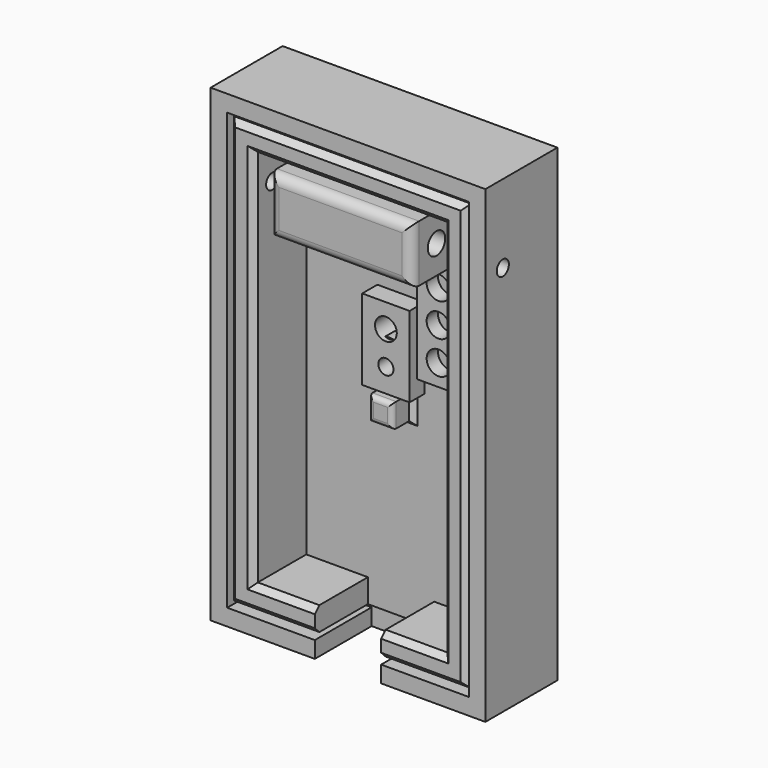
from build123d import *

# Parameters (mm, degrees)
SKETCH006_W          = 58
SKETCH006_H          = 99
PAD004_DEPTH         = 16
SKETCH007_W          = 51
SKETCH007_H          = 92
SKETCH007_W_2        = 30
SKETCH007_H_2        = 12
SKETCH007_W_3        = 5
SKETCH007_H_3        = 5
POCKET004_DEPTH      = 12
POCKET004_FACE21_W   = 5
POCKET004_FACE21_H   = 5
POCKET005_DEPTH      = 5.6
POCKET005_FACE20_W   = 30
POCKET005_FACE20_H   = 12
PAD005_DEPTH         = 5
SKETCH009_R          = 2.3
POCKET006_DEPTH      = 4
SKETCH010_R          = 2.3
POCKET007_DEPTH      = 4
SKETCH011_R          = 1.6
POCKET008_DEPTH      = 40.001
POCKET008_DEPTH_BACK = -18.001
FILLET_R             = 2
FILLET001_R          = 1
SKETCH012_W          = 14
SKETCH012_H          = 12
POCKET009_DEPTH      = 3.5
SKETCH015_R          = 5
PAD007_DEPTH         = 4
SKETCH016_R          = 2.3
POCKET012_DEPTH      = 3
PAD012_DEPTH         = 3
SKETCH_R             = 2.1
POCKET_DEPTH         = 4.001
CHAMFER_SIZE         = 2
CHAMFER001_SIZE      = 2
SKETCH017_W          = 50
SKETCH017_H          = 90
PAD008_DEPTH         = 5
SKETCH018_W          = 50
SKETCH018_H          = 90
SKETCH018_W_2        = 40
SKETCH018_H_2        = 80
PAD009_DEPTH         = 14
SKETCH019_W          = 14
SKETCH019_H          = 5
POCKET013_DEPTH      = 14
SKETCH020_W          = 10
SKETCH020_H          = 17
PAD010_DEPTH         = 4
SKETCH021_R          = 2.3
SKETCH021_R_2        = 1.6
POCKET014_DEPTH      = 7
POCKET014_FACE22_R   = 1.6
POCKET015_DEPTH      = 2.001
SKETCH022_R          = 3.1
POCKET016_DEPTH      = 3
SKETCH023_W          = 9
SKETCH023_H          = 23
PAD011_DEPTH         = 2
SKETCH024_R          = 2.5
POCKET017_DEPTH      = 7.001
SKETCH025_R          = 1.6
POCKET018_DEPTH      = 50.001
CHAMFER002_SIZE      = 1.2


with BuildPart() as backplate:
    # Sketch006 → Pad004 (new body)
    with BuildSketch(Plane.XZ):
        Rectangle(SKETCH006_W, SKETCH006_H)
    extrude(amount=PAD004_DEPTH)

    # Sketch007 (on Face6 of Pad004) → Pocket004 (cut)
    with BuildSketch(Plane.XZ.offset(16)):
        Rectangle(SKETCH007_W, SKETCH007_H)
        with Locations((0, 33)):
            Rectangle(SKETCH007_W_2, SKETCH007_H_2, mode=Mode.SUBTRACT)
        with Locations((0, -5)):
            Rectangle(SKETCH007_W_3, SKETCH007_H_3, mode=Mode.SUBTRACT)
    extrude(amount=-POCKET004_DEPTH, mode=Mode.SUBTRACT)

    # Pocket004 Face21 → Pocket005 (cut)
    with BuildSketch(Plane(origin=(0, -16, -5), x_dir=(-1, 0, 0), z_dir=(0, -1, 0))):
        Rectangle(POCKET004_FACE21_W, POCKET004_FACE21_H)
    extrude(amount=-POCKET005_DEPTH, mode=Mode.SUBTRACT)

    # Pocket005 Face20 → Pad005 (add)
    with BuildSketch(Plane(origin=(0, -16, 33), x_dir=(-1, 0, 0), z_dir=(0, -1, 0))):
        Rectangle(POCKET005_FACE20_W, POCKET005_FACE20_H)
    extrude(amount=PAD005_DEPTH)

    # Sketch009 (on Face20 of Pad005) → Pocket006 (cut)
    with BuildSketch(Plane(origin=(15, 0, 0), x_dir=(0, 0, 1), z_dir=(1, 0, 0))):
        with Locations((33, 14.4)):
            Circle(SKETCH009_R)
    extrude(amount=-POCKET006_DEPTH, mode=Mode.SUBTRACT)

    # Sketch010 (on Face12 of Pocket006) → Pocket007 (cut)
    with BuildSketch(Plane(origin=(-15, 0, 0), x_dir=(0, 0, -1), z_dir=(-1, 0, 0))):
        with Locations((-33, 14.4)):
            Circle(SKETCH010_R)
    extrude(amount=-POCKET007_DEPTH, mode=Mode.SUBTRACT)

    # Sketch011 (on Face25 of Pocket007) → Pocket008 (cut, two sides)
    with BuildSketch(Plane(origin=(11, 0, 0), x_dir=(0, 0, 1), z_dir=(1, 0, 0))) as pocket008_sk:
        with Locations((33, 14.4)):
            Circle(SKETCH011_R)
    extrude(amount=-POCKET008_DEPTH, mode=Mode.SUBTRACT)
    extrude(pocket008_sk.sketch, amount=-POCKET008_DEPTH_BACK, mode=Mode.SUBTRACT)

    # Fillet
    fillet_edges = [backplate.edges().sort_by_distance(p)[0] for p in [
        (-15, -21, 33),
        (0, -21, 27),
        (15, -21, 33),
        (0, -21, 39),
    ]]
    fillet(fillet_edges, radius=FILLET_R)

    # Fillet001
    fillet001_edges = [backplate.edges().sort_by_distance(p)[0] for p in [
        (0, -10.4, -7.5),
        (2.5, -10.4, -5),
        (0, -10.4, -2.5),
        (-2.5, -10.4, -5),
    ]]
    fillet(fillet001_edges, radius=FILLET001_R)

    # Sketch012 (on Face28 of Fillet001) → Pocket009 (cut)
    with BuildSketch(Plane(origin=(0, 0, -49.5), x_dir=(1, 0, 0), z_dir=(0, 0, -1))):
        with Locations((0, 10)):
            Rectangle(SKETCH012_W, SKETCH012_H)
    extrude(amount=-POCKET009_DEPTH, mode=Mode.SUBTRACT)

    # Sketch015 (on Face16 of Pocket009) → Pad007 (join)
    with BuildSketch(Plane.XZ.offset(4)):
        with Locations((0, 3)):
            Circle(SKETCH015_R)
    extrude(amount=PAD007_DEPTH)

    # Sketch016 (on Face30 of Pad007) → Pocket012 (cut)
    with BuildSketch(Plane.XZ.offset(8)):
        with Locations((0, 3)):
            Circle(SKETCH016_R)
    extrude(amount=-POCKET012_DEPTH, mode=Mode.SUBTRACT)

    # Pocket012 Face2 → Pad012 (add)
    with BuildSketch(Plane(origin=(0, -16, 2.337413), x_dir=(-1, 0, 0), z_dir=(0, -1, 0))):
        Polygon((29, -30.662587), (29, 51.837413), (7, 51.837413), (7, 48.337413), (25.5, 48.337413), (25.5, -30.662587), (25.5, -43.662587), (-25.5, -43.662587), (-25.5, -30.662587), (-25.5, 48.337413), (-7, 48.337413), (-7, 51.837413), (-29, 51.837413), (-29, -30.662587), (-29, -47.162587), (29, -47.162587), align=None)
    extrude(amount=PAD012_DEPTH)

    # Sketch (on Face3 of Pad012) → Pocket (cut, through all)
    with BuildSketch(Plane.XZ.offset(4)):
        with Locations((0, -39.5)):
            Circle(SKETCH_R)
        with Locations((0, 17)):
            Circle(SKETCH_R)
    extrude(amount=-POCKET_DEPTH, mode=Mode.SUBTRACT)

    # Chamfer
    chamfer_edges = [backplate.edges().sort_by_distance(p)[0] for p in [
        (-2.1, -4, 17),
        (-2.1, -4, -39.5),
    ]]
    chamfer(chamfer_edges, length=CHAMFER_SIZE)

    # Chamfer001
    chamfer001_edges = [backplate.edges().sort_by_distance(p)[0] for p in [
        (2.5, -4, -5),
        (0, -4, -7.5),
        (-2.5, -4, -5),
    ]]
    chamfer(chamfer001_edges, length=CHAMFER001_SIZE)


with BuildPart() as pressplate:
    # Sketch017 → Pad008 (new body)
    with BuildSketch(Plane.XZ):
        Rectangle(SKETCH017_W, SKETCH017_H)
    extrude(amount=PAD008_DEPTH)

    # Sketch018 (on Face6 of Pad008) → Pad009 (join)
    with BuildSketch(Plane.XZ.offset(5)):
        Rectangle(SKETCH018_W, SKETCH018_H)
        Rectangle(SKETCH018_W_2, SKETCH018_H_2, mode=Mode.SUBTRACT)
    extrude(amount=PAD009_DEPTH)

    # Sketch019 (on Face3 of Pad009) → Pocket013 (cut)
    with BuildSketch(Plane.XZ.offset(19)):
        with Locations((0, -42.5)):
            Rectangle(SKETCH019_W, SKETCH019_H)
    extrude(amount=-POCKET013_DEPTH, mode=Mode.SUBTRACT)

    # Sketch020 (on Face14 of Pocket013) → Pad010 (join)
    with BuildSketch(Plane.XZ.offset(5)):
        with Locations((0, 6.5)):
            Rectangle(SKETCH020_W, SKETCH020_H)
    extrude(amount=PAD010_DEPTH)

    # Sketch021 (on Face19 of Pad010) → Pocket014 (cut)
    with BuildSketch(Plane.XZ.offset(9)):
        with Locations((0, 10)):
            Circle(SKETCH021_R)
        with Locations((0, 3)):
            Circle(SKETCH021_R_2)
    extrude(amount=-POCKET014_DEPTH, mode=Mode.SUBTRACT)

    # Pocket014 Face22 → Pocket015 (cut, through all)
    with BuildSketch(Plane(origin=(0, -2, 3), x_dir=(-1, 0, 0), z_dir=(0, -1, 0))):
        Circle(POCKET014_FACE22_R)
    extrude(amount=-POCKET015_DEPTH, mode=Mode.SUBTRACT)

    # Sketch022 (on Face1 of Pocket015) → Pocket016 (cut)
    with BuildSketch(Plane(origin=(0, 0, 0), x_dir=(1, 0, 0), z_dir=(0, 1, 0))):
        with Locations((0, -3)):
            Circle(SKETCH022_R)
    extrude(amount=-POCKET016_DEPTH, mode=Mode.SUBTRACT)

    # Sketch023 (on Face9 of Pocket016) → Pad011 (join)
    with BuildSketch(Plane.XZ.offset(5)):
        with Locations((9.5, 13)):
            Rectangle(SKETCH023_W, SKETCH023_H)
    extrude(amount=PAD011_DEPTH)

    # Sketch024 (on Face27 of Pad011) → Pocket017 (cut, through all)
    with BuildSketch(Plane.XZ.offset(7)):
        with Locations((9.5, 20)):
            Circle(SKETCH024_R)
        with Locations((9.5, 13)):
            Circle(SKETCH024_R)
        with Locations((9.5, 6)):
            Circle(SKETCH024_R)
    extrude(amount=-POCKET017_DEPTH, mode=Mode.SUBTRACT)

    # Sketch025 (on Face4 of Pocket017) → Pocket018 (cut, through all)
    with BuildSketch(Plane(origin=(25, 0, 0), x_dir=(0, 0, 1), z_dir=(1, 0, 0))):
        with Locations((33, 14)):
            Circle(SKETCH025_R)
    extrude(amount=-POCKET018_DEPTH, mode=Mode.SUBTRACT)

    # Chamfer002
    chamfer002_edges = [pressplate.edges().sort_by_distance(p)[0] for p in [
        (-20, -19, 0),
        (-25, -19, 0),
        (0, -19, 45),
        (0, -19, 40),
        (20, -19, 0),
        (25, -19, 0),
        (16, -19, -45),
        (13.5, -19, -40),
        (-13.5, -19, -40),
        (-16, -19, -45),
    ]]
    chamfer(chamfer002_edges, length=CHAMFER002_SIZE)


solid = Compound([backplate.part, pressplate.part])
